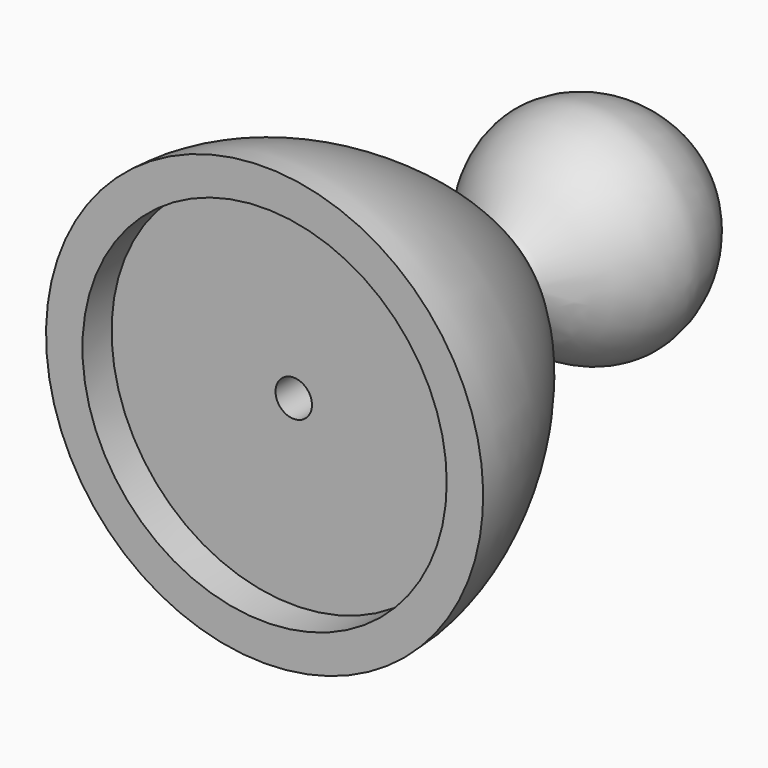
from build123d import *

# Parameters (mm, degrees)
F2_R     = 5
F3_DEPTH = 1
F4_R     = 0.5
F5_DEPTH = 25


with BuildPart() as f1:
    # F0 (on Right) → F1 (revolve)
    with BuildSketch(Plane.YZ):
        with BuildLine():
            Line((0, 0), (0, -6))
            add(Edge.make_bspline(
                [(0, -6), (2.8203784362, -5.9655889681), (7.1303978549, -2.4524716633), (7.9454848453, -0.5262469552), (8.9289428634, -2.2188331126), (10.9973274478, -3.4265152063), (13.3297280982, -2.1900272577), (14.0698651624, -0.6895763198), (14, 0)],
                knots=[0, 0, 0, 0, 0.2937982665, 0.4133943443, 0.5346060142, 0.6897261024, 0.8484312936, 1, 1, 1, 1], degree=3))
            Line((14, 0), (0, 0))
        make_face()
    revolve(axis=Axis((0, 7, 0), (0, 1, 0)))

    # F2 (on Front) → F3 (cut)
    with BuildSketch(Plane.XZ):
        Circle(F2_R)
    extrude(amount=-F3_DEPTH, mode=Mode.SUBTRACT)

    # F4 (on Front) → F5 (cut)
    with BuildSketch(Plane.XZ):
        Circle(F4_R)
    extrude(amount=-F5_DEPTH, mode=Mode.SUBTRACT)


solid = f1.part
